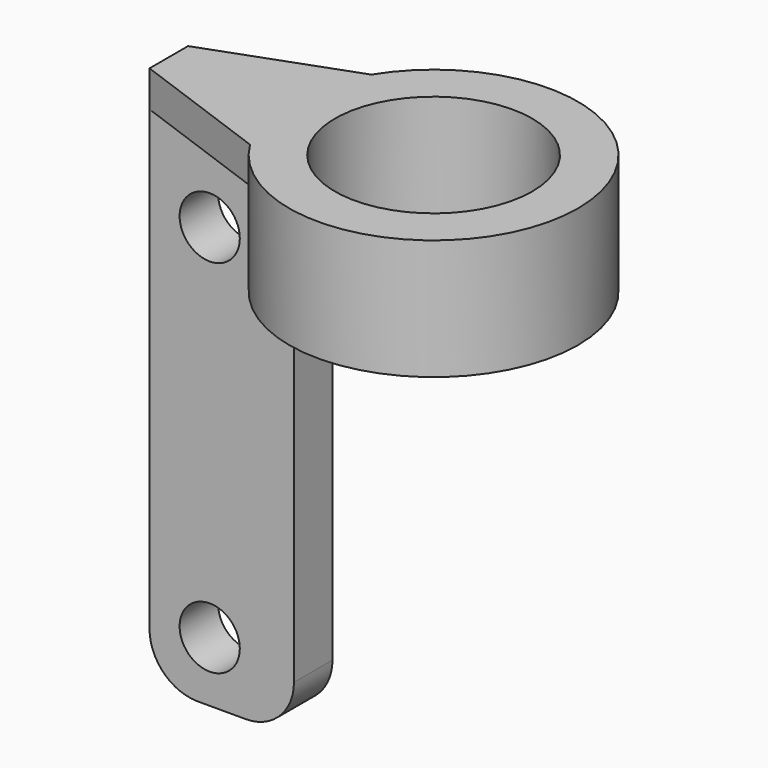
from build123d import *

# Parameters (mm, degrees)
SKETCH_R     = 12
SKETCH_R_2   = 8.2
PAD_DEPTH    = 10
SKETCH001_W  = 12
SKETCH001_H  = 4
PAD001_DEPTH = 45
SKETCH003_R  = 2.5
POCKET_DEPTH = 5
PAD002_DEPTH = 3
FILLET_R     = 4
CHAMFER_SIZE = 0.5


with BuildPart() as part:
    # Sketch → Pad (new body)
    with BuildSketch(Plane.XY):
        Circle(SKETCH_R)
        Circle(SKETCH_R_2, mode=Mode.SUBTRACT)
    extrude(amount=PAD_DEPTH)

    # Sketch001 (on Face4 of Pad) → Pad001 (join)
    with BuildSketch(Plane.XY.offset(10)):
        with Locations((-16, 0)):
            Rectangle(SKETCH001_W, SKETCH001_H)
    extrude(amount=-PAD001_DEPTH)

    # Sketch003 (on Face6 of Pad001) → Pocket (cut)
    with BuildSketch(Plane.XZ.offset(2)):
        with Locations((-17, 0)):
            Circle(SKETCH003_R)
        with Locations((-17, -30)):
            Circle(SKETCH003_R)
    extrude(amount=-POCKET_DEPTH, mode=Mode.SUBTRACT)

    # Sketch005 (on Face10 of Pocket) → Pad002 (join)
    with BuildSketch(Plane.XY.offset(10)):
        Polygon((-22, 2), (-9.44483, 6.578776), (-9.44483, -6.578776), (-22, -2), align=None)
    extrude(amount=-PAD002_DEPTH)

    # Fillet
    fillet_edges = [part.edges().sort_by_distance(p)[0] for p in [
        (-22, 0, -35),
        (-10, 0, -35),
    ]]
    fillet(fillet_edges, radius=FILLET_R)

    # Chamfer
    chamfer_edges = [part.edges().sort_by_distance(p)[0] for p in [
        (-8.2, 0, 0),
    ]]
    chamfer(chamfer_edges, length=CHAMFER_SIZE)


solid = part.part
